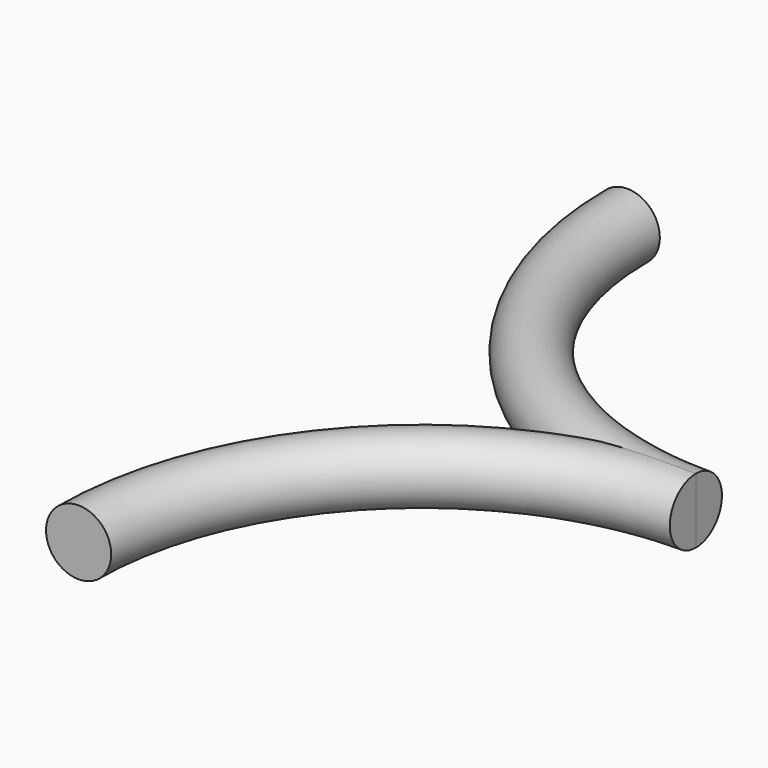
from build123d import *

# Parameters (mm, degrees)
F2_R     = 9.5
F4_W     = 267.021797
F4_H     = 292.826072
F5_DEPTH = 40.8


with BuildPart() as f3:
    # F3: sweep along a path in F0
    with BuildLine(Plane.XY) as f3_path:
        ThreePointArc((0, 100), (29.289322, 29.289322), (100, 0))
    # F2 (on offset) → F3 (sweep)
    with BuildSketch(Plane.YZ.offset(100)):
        Circle(F2_R)
    sweep(path=f3_path.line)

    # F4 (on Front) → F5 (cut)
    with BuildSketch(Plane.XZ):
        with Locations((22.515599, 0.766836)):
            Rectangle(F4_W, F4_H)
    extrude(amount=F5_DEPTH, mode=Mode.SUBTRACT)

    # F6: F3 across face


with BuildPart() as f3_1:
    add(f3.part)
    add(f3.part.mirror(Plane(origin=(80.01217, 0, -7e-06), x_dir=(1, 0, 0), z_dir=(0, -1, 0))))


solid = f3_1.part
